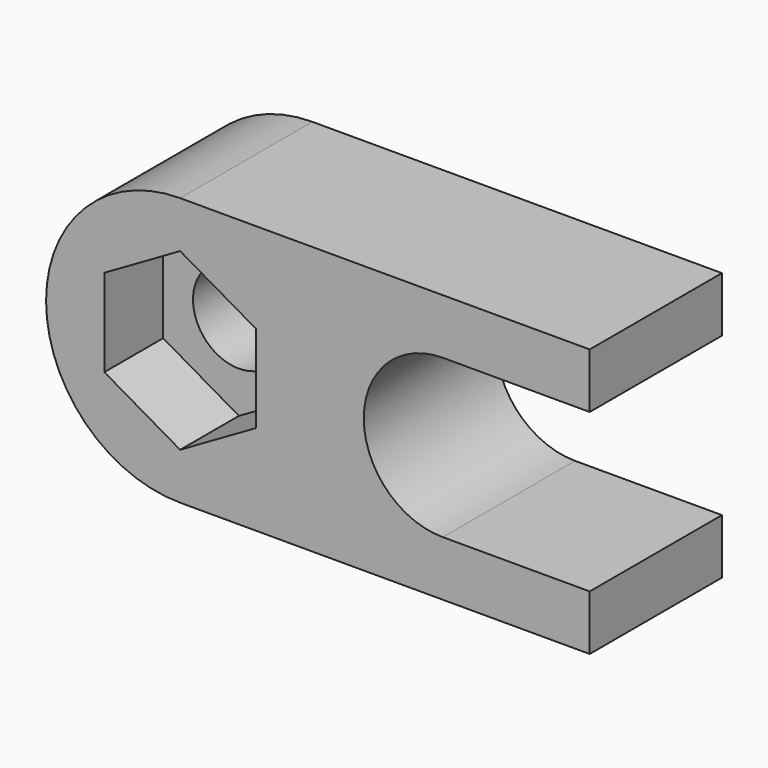
from build123d import *

# Parameters (mm, degrees)
F0_R     = 2.5
F1_DEPTH = 9
F2_R     = 2.5
F3_DEPTH = 4
F4_R     = 5.25
F4_R_2   = 3.5
F5_DEPTH = 1.75
F6_R     = 0.7


with BuildPart() as f1:
    # F0 (on Front) → F1 (new body)
    with BuildSketch(Plane.XZ):
        with BuildLine():
            Line((22.3, 4.3), (22.3, 7.3))
            Line((22.3, 7.3), (0, 7.3))
            ThreePointArc((0, 7.3), (-7.3, 0), (0, -7.3))
            Line((0, -7.3), (22.3, -7.3))
            Line((22.3, -7.3), (22.3, -4.3))
            Line((22.3, -4.3), (14.3, -4.3))
            ThreePointArc((14.3, -4.3), (10, 0), (14.3, 4.3))
            Line((14.3, 4.3), (22.3, 4.3))
        make_face()
        Circle(F0_R, mode=Mode.SUBTRACT)
    extrude(amount=F1_DEPTH)

    # F2 (on face) → F3 (cut)
    with BuildSketch(Plane.XZ.offset(9)):
        Polygon((4.125, -2.38157), (4.125, 2.38157), (0, 4.76314), (-4.125, 2.38157), (-4.125, -2.38157), (0, -4.76314), align=None)
        Circle(F2_R, mode=Mode.SUBTRACT)
    extrude(amount=-F3_DEPTH, mode=Mode.SUBTRACT)

    # F4 (on Front) → F5 (cut)
    with BuildSketch(Plane.XZ):
        Circle(F4_R)
        Circle(F4_R_2, mode=Mode.SUBTRACT)
    extrude(amount=F5_DEPTH, mode=Mode.SUBTRACT)

    # F6
    f6_edges = [f1.edges().sort_by_distance(p)[0] for p in [
        (-5.25, -1.75, 0),
        (-3.5, -1.75, 0),
    ]]
    fillet(f6_edges, radius=F6_R)


solid = f1.part
